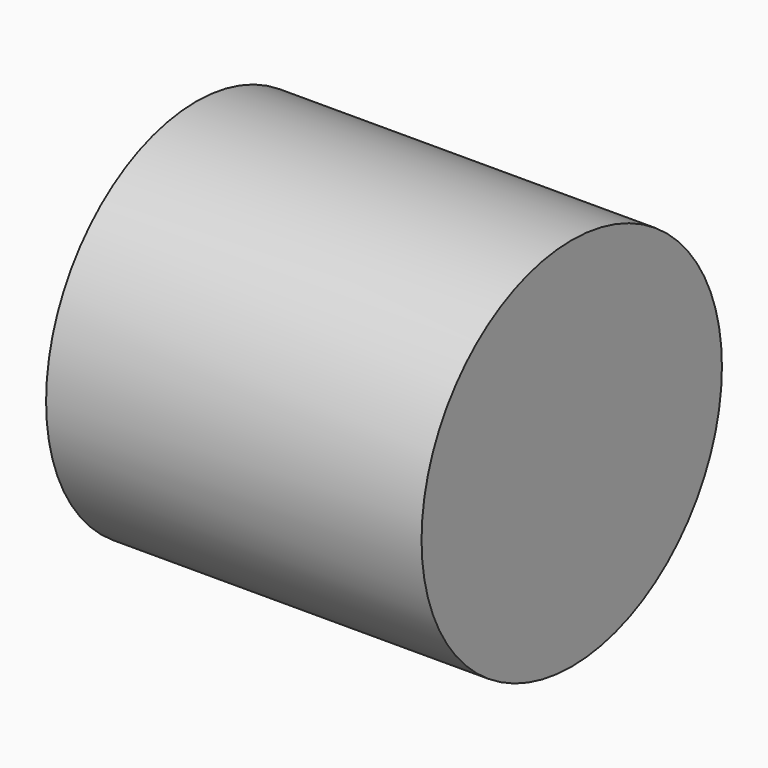
from build123d import *

# Parameters (mm, degrees)
F0_W     = 12.7
F0_H     = 6.35
F2_R     = 2.5527
F3_DEPTH = 9.525


with BuildPart() as f1:
    # F0 (on Top) → F1 (revolve)
    with BuildSketch(Plane.XY):
        with Locations((6.35, 9.525)):
            Rectangle(F0_W, F0_H)
    revolve(axis=Axis((6.35, 6.35, 0), (-1, 0, 0)))

    # F2 (on face) → F3 (join)
    with BuildSketch(Plane(origin=(0, 0, 0), x_dir=(0, -1, 0), z_dir=(-1, 0, 0))):
        with Locations((-6.35, 0)):
            Circle(F2_R)
    extrude(amount=-F3_DEPTH)


solid = f1.part
